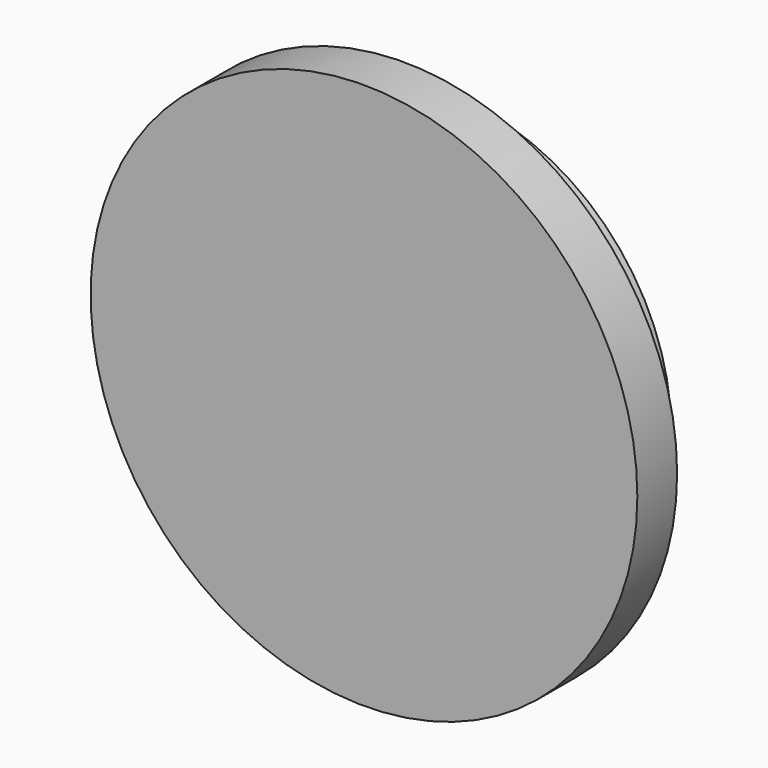
from build123d import *

# Parameters (mm, degrees)
F0_R     = 55
F1_DEPTH = 10
F2_DEPTH = 11


with BuildPart() as f1:
    # F0 (on Front) → F1 (new body)
    with BuildSketch(Plane.XZ):
        with Locations((28, 27.676574)):
            Circle(F0_R)
        with BuildLine():
            ThreePointArc((65.630661, 3), (64.587338, 1.477973), (63.482492, 0))
            ThreePointArc((63.482492, 0), (-14.554155, 42.310232), (73, 27.676574))
            ThreePointArc((73, 27.676574), (71.118324, 14.799847), (65.630661, 3))
        make_face(mode=Mode.SUBTRACT)
        with BuildLine():
            Line((51, 0), (0, 0))
            Line((0, 0), (3, 52))
            Line((3, 52), (47, 56))
            Line((47, 56), (56.331484, 28))
            Line((56.331484, 28), (51.57123, 3))
            Line((51.57123, 3), (65.630661, 3))
            ThreePointArc((65.630661, 3), (71.118324, 14.799847), (73, 27.676574))
            ThreePointArc((73, 27.676574), (-14.554155, 42.310232), (63.482492, 0))
            Line((63.482492, 0), (51, 0))
        make_face()
        with BuildLine():
            Line((3, 52), (0, 0))
            Line((0, 0), (51, 0))
            Line((51, 0), (63.482492, 0))
            ThreePointArc((63.482492, 0), (64.587338, 1.477973), (65.630661, 3))
            Line((65.630661, 3), (51.57123, 3))
            Line((51.57123, 3), (56.331484, 28))
            Line((56.331484, 28), (47, 56))
            Line((47, 56), (3, 52))
        make_face()
    extrude(amount=F1_DEPTH)

    # F0 (on Front) → F2 (join)
    with BuildSketch(Plane.XZ):
        with BuildLine():
            Line((51, 0), (0, 0))
            Line((0, 0), (3, 52))
            Line((3, 52), (47, 56))
            Line((47, 56), (56.331484, 28))
            Line((56.331484, 28), (51.57123, 3))
            Line((51.57123, 3), (65.630661, 3))
            ThreePointArc((65.630661, 3), (71.118324, 14.799847), (73, 27.676574))
            ThreePointArc((73, 27.676574), (-14.554155, 42.310232), (63.482492, 0))
            Line((63.482492, 0), (51, 0))
        make_face()
    extrude(amount=-F2_DEPTH)


solid = f1.part
